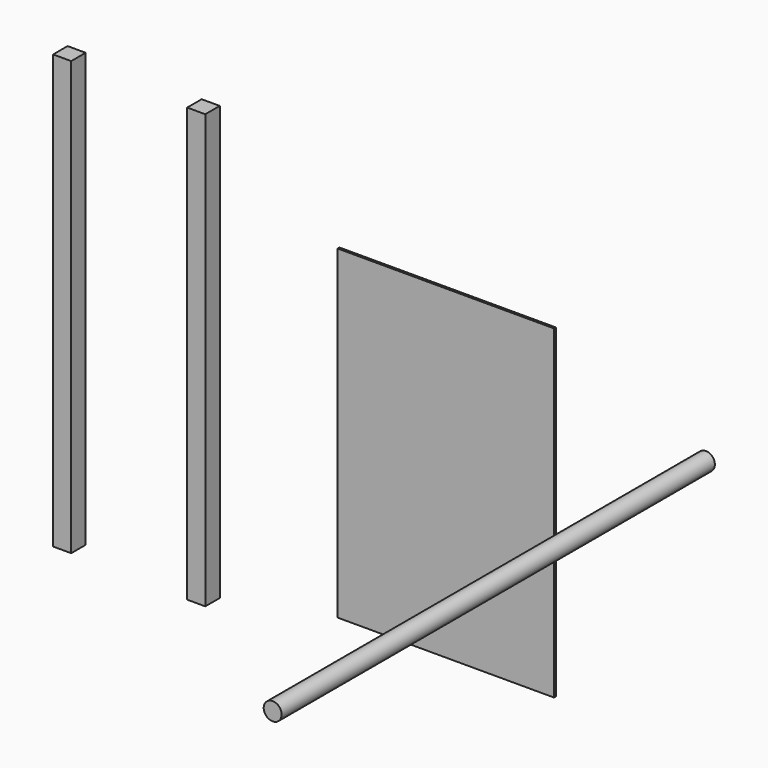
from build123d import *

# Parameters (mm, degrees)
F0_W     = 4.233334
F0_H     = 101.6
F1_DEPTH = 4.2418
F0_W_2   = 50.8
F0_H_2   = 76.2
F2_DEPTH = 0.5334
F3_R     = 2.099698
F4_DEPTH = 127
F0_W_3   = 4.2418
F5_DEPTH = 4.2418


with BuildPart() as f1:
    # F0 (on Front) → F1 (new body)
    with BuildSketch(Plane.XZ):
        with Locations((-87.001896, 26.101648)):
            Rectangle(F0_W, F0_H)
    extrude(amount=F1_DEPTH)


with BuildPart() as f2:
    # F0 (on Front) → F2 (new body)
    with BuildSketch(Plane.XZ):
        with Locations((0, 17.956149)):
            Rectangle(F0_W_2, F0_H_2)
    extrude(amount=F2_DEPTH)


with BuildPart() as f4:
    # F3 (on Front) → F4 (new body)
    with BuildSketch(Plane.XZ):
        with Locations((60.569402, 39.887477)):
            Circle(F3_R)
    extrude(amount=F4_DEPTH)


with BuildPart() as f5:
    # F0 (on Front) → F5 (new body)
    with BuildSketch(Plane.XZ):
        with Locations((-55.560307, 25.357223)):
            Rectangle(F0_W_3, F0_H)
    extrude(amount=F5_DEPTH)


solid = Compound([f1.part, f2.part, f4.part, f5.part])
